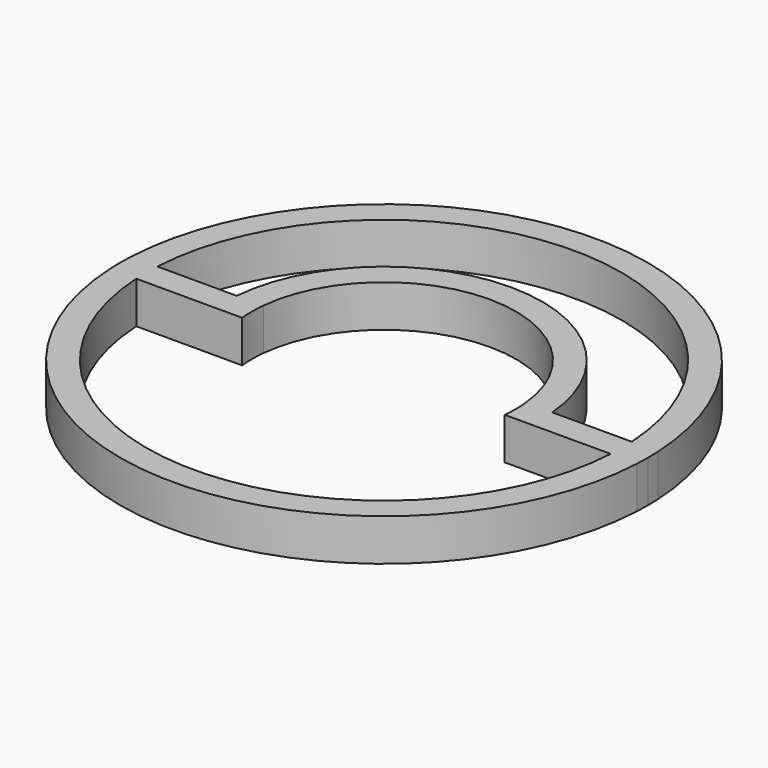
from build123d import *

# Parameters (mm, degrees)
F1_DEPTH = 6.35


with BuildPart() as f1:
    # F0 (on Top) → F1 (new body)
    with BuildSketch(Plane.XY):
        with BuildLine():
            Line((35.9444015112, 0.8), (39.9499687109, 0.8))
            ThreePointArc((39.9499687109, 0.8), (0, 38.8), (-39.9499687109, 0.8))
            Line((-39.9499687109, 0.8), (-35.9444015112, 0.8))
            ThreePointArc((-35.9444015112, 0.8), (0, 34.8), (35.9444015112, 0.8))
        make_face()
        with BuildLine():
            Line((-35.9444015112, 0.8), (-39.9499687109, 0.8))
            ThreePointArc((-39.9499687109, 0.8), (-39.9874902215, -0.1996871577), (-40, -1.2))
            ThreePointArc((-40, -1.2), (-39.9874902215, -2.2003128423), (-39.9499687109, -3.2))
            Line((-39.9499687109, -3.2), (-35.9444015112, -3.2))
            ThreePointArc((-35.9444015112, -3.2), (-36, -1.2), (-35.9444015112, 0.8))
        make_face()
        with BuildLine():
            ThreePointArc((-39.9499687109, -3.2), (0, -41.2), (39.9499687109, -3.2))
            Line((39.9499687109, -3.2), (35.9444015112, -3.2))
            ThreePointArc((35.9444015112, -3.2), (0, -37.2), (-35.9444015112, -3.2))
            Line((-35.9444015112, -3.2), (-39.9499687109, -3.2))
        make_face()
        with BuildLine():
            ThreePointArc((39.9499687109, -3.2), (39.9874902215, -2.2003128423), (40, -1.2))
            ThreePointArc((40, -1.2), (39.9874902215, -0.1996871577), (39.9499687109, 0.8))
            Line((39.9499687109, 0.8), (35.9444015112, 0.8))
            ThreePointArc((35.9444015112, 0.8), (35.9860976934, -0.1996136756), (36, -1.2))
            ThreePointArc((36, -1.2), (35.9860976934, -2.2003863244), (35.9444015112, -3.2))
            Line((35.9444015112, -3.2), (39.9499687109, -3.2))
        make_face()
        with BuildLine():
            ThreePointArc((36, -1.2), (35.9860976934, -0.1996136756), (35.9444015112, 0.8))
            Line((35.9444015112, 0.8), (23.9165214862, 0.8))
            ThreePointArc((23.9165214862, 0.8), (23.9791212899, -0.1991292963), (24, -1.2))
            ThreePointArc((24, -1.2), (23.9791212899, -2.2008707037), (23.9165214862, -3.2))
            Line((23.9165214862, -3.2), (35.9444015112, -3.2))
            ThreePointArc((35.9444015112, -3.2), (35.9860976934, -2.2003863244), (36, -1.2))
        make_face()
        with BuildLine():
            ThreePointArc((24, -1.2), (23.9791212899, -0.1991292963), (23.9165214862, 0.8))
            Line((23.9165214862, 0.8), (19.8997487421, 0.8))
            ThreePointArc((19.8997487421, 0.8), (19.9749214622, -0.1987444988), (20, -1.2))
            ThreePointArc((20, -1.2), (19.9749214622, -2.2012555012), (19.8997487421, -3.2))
            Line((19.8997487421, -3.2), (23.9165214862, -3.2))
            ThreePointArc((23.9165214862, -3.2), (23.9791212899, -2.2008707037), (24, -1.2))
        make_face()
        with BuildLine():
            Line((19.8997487421, 0.8), (23.9165214862, 0.8))
            ThreePointArc((23.9165214862, 0.8), (0, 22.8), (-23.9165214862, 0.8))
            Line((-23.9165214862, 0.8), (-19.8997487421, 0.8))
            ThreePointArc((-19.8997487421, 0.8), (0, 18.8), (19.8997487421, 0.8))
        make_face()
        with BuildLine():
            Line((-19.8997487421, 0.8), (-23.9165214862, 0.8))
            ThreePointArc((-23.9165214862, 0.8), (-24, -1.2), (-23.9165214862, -3.2))
            Line((-23.9165214862, -3.2), (-19.8997487421, -3.2))
            ThreePointArc((-19.8997487421, -3.2), (-20, -1.2), (-19.8997487421, 0.8))
        make_face()
        with BuildLine():
            Line((-23.9165214862, 0.8), (-35.9444015112, 0.8))
            ThreePointArc((-35.9444015112, 0.8), (-36, -1.2), (-35.9444015112, -3.2))
            Line((-35.9444015112, -3.2), (-23.9165214862, -3.2))
            ThreePointArc((-23.9165214862, -3.2), (-24, -1.2), (-23.9165214862, 0.8))
        make_face()
    extrude(amount=F1_DEPTH)


solid = f1.part
